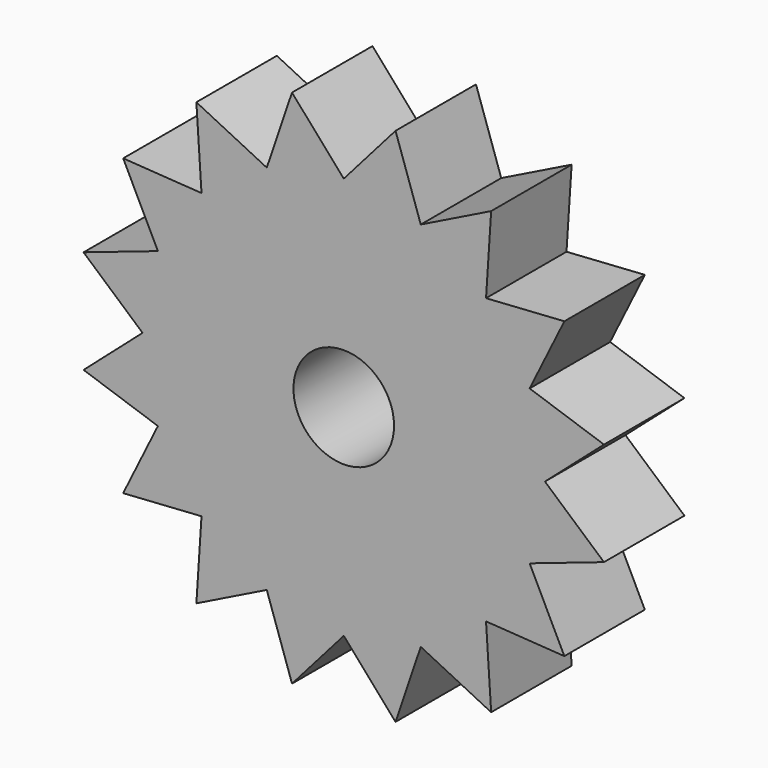
from build123d import *

# Parameters (mm, degrees)
F0_R     = 2
F1_DEPTH = 2


with BuildPart() as f1:
    # F0 (on Front) → F1 (new body, symmetric)
    with BuildSketch(Plane.XZ):
        with BuildLine():
            ThreePointArc((7.3910362601, -3.0614674589), (7.8462822432, -1.5607225761), (8, 0))
            ThreePointArc((8, 0), (7.8462822432, 1.5607225761), (7.3910362601, 3.0614674589))
            ThreePointArc((7.3910362601, 3.0614674589), (6.6517568984, 4.4445618642), (5.6568542495, 5.6568542495))
            ThreePointArc((5.6568542495, 5.6568542495), (4.4445618642, 6.6517568984), (3.0614674589, 7.3910362601))
            ThreePointArc((3.0614674589, 7.3910362601), (1.5607225761, 7.8462822432), (0, 8))
            ThreePointArc((0, 8), (-1.5607225761, 7.8462822432), (-3.0614674589, 7.3910362601))
            ThreePointArc((-3.0614674589, 7.3910362601), (-4.4445618642, 6.6517568984), (-5.6568542495, 5.6568542495))
            ThreePointArc((-5.6568542495, 5.6568542495), (-6.6517568984, 4.4445618642), (-7.3910362601, 3.0614674589))
            ThreePointArc((-7.3910362601, 3.0614674589), (-7.8462822432, 1.5607225761), (-8, 0))
            ThreePointArc((-8, 0), (-7.8462822432, -1.5607225761), (-7.3910362601, -3.0614674589))
            ThreePointArc((-7.3910362601, -3.0614674589), (-6.6517568984, -4.4445618642), (-5.6568542495, -5.6568542495))
            ThreePointArc((-5.6568542495, -5.6568542495), (-4.4445618642, -6.6517568984), (-3.0614674589, -7.3910362601))
            ThreePointArc((-3.0614674589, -7.3910362601), (-1.5607225761, -7.8462822432), (0, -8))
            ThreePointArc((0, -8), (1.5607225761, -7.8462822432), (3.0614674589, -7.3910362601))
            ThreePointArc((3.0614674589, -7.3910362601), (4.4445618642, -6.6517568984), (5.6568542495, -5.6568542495))
            ThreePointArc((5.6568542495, -5.6568542495), (6.6517568984, -4.4445618642), (7.3910362601, -3.0614674589))
        make_face()
        Circle(F0_R, mode=Mode.SUBTRACT)
        with BuildLine():
            Line((10.3468267223, -2.0581117982), (8, 0))
            ThreePointArc((8, 0), (7.8462822432, -1.5607225761), (7.3910362601, -3.0614674589))
            Line((7.3910362601, -3.0614674589), (10.3468267223, -2.0581117982))
        make_face()
        with BuildLine():
            ThreePointArc((7.3910362601, 3.0614674589), (7.8462822432, 1.5607225761), (8, 0))
            Line((8, 0), (10.3468267223, 2.0581117982))
            Line((10.3468267223, 2.0581117982), (7.3910362601, 3.0614674589))
        make_face()
        with BuildLine():
            ThreePointArc((5.6568542495, 5.6568542495), (6.6517568984, 4.4445618642), (7.3910362601, 3.0614674589))
            Line((7.3910362601, 3.0614674589), (8.7716161481, 5.8610065302))
            Line((8.7716161481, 5.8610065302), (5.6568542495, 5.6568542495))
        make_face()
        with BuildLine():
            Line((8.7716161481, -5.8610065302), (7.3910362601, -3.0614674589))
            ThreePointArc((7.3910362601, -3.0614674589), (6.6517568984, -4.4445618642), (5.6568542495, -5.6568542495))
            Line((5.6568542495, -5.6568542495), (8.7716161481, -5.8610065302))
        make_face()
        with BuildLine():
            ThreePointArc((3.0614674589, 7.3910362601), (4.4445618642, 6.6517568984), (5.6568542495, 5.6568542495))
            Line((5.6568542495, 5.6568542495), (5.8610065302, 8.7716161481))
            Line((5.8610065302, 8.7716161481), (3.0614674589, 7.3910362601))
        make_face()
        with BuildLine():
            Line((5.8610065302, -8.7716161481), (5.6568542495, -5.6568542495))
            ThreePointArc((5.6568542495, -5.6568542495), (4.4445618642, -6.6517568984), (3.0614674589, -7.3910362601))
            Line((3.0614674589, -7.3910362601), (5.8610065302, -8.7716161481))
        make_face()
        with BuildLine():
            ThreePointArc((0, 8), (1.5607225761, 7.8462822432), (3.0614674589, 7.3910362601))
            Line((3.0614674589, 7.3910362601), (2.0581117982, 10.3468267223))
            Line((2.0581117982, 10.3468267223), (0, 8))
        make_face()
        with BuildLine():
            Line((2.0581117982, -10.3468267223), (3.0614674589, -7.3910362601))
            ThreePointArc((3.0614674589, -7.3910362601), (1.5607225761, -7.8462822432), (0, -8))
            Line((0, -8), (2.0581117982, -10.3468267223))
        make_face()
        with BuildLine():
            ThreePointArc((-3.0614674589, 7.3910362601), (-1.5607225761, 7.8462822432), (0, 8))
            Line((0, 8), (-2.0581117982, 10.3468267223))
            Line((-2.0581117982, 10.3468267223), (-3.0614674589, 7.3910362601))
        make_face()
        with BuildLine():
            Line((-2.0581117982, -10.3468267223), (0, -8))
            ThreePointArc((0, -8), (-1.5607225761, -7.8462822432), (-3.0614674589, -7.3910362601))
            Line((-3.0614674589, -7.3910362601), (-2.0581117982, -10.3468267223))
        make_face()
        with BuildLine():
            ThreePointArc((-5.6568542495, 5.6568542495), (-4.4445618642, 6.6517568984), (-3.0614674589, 7.3910362601))
            Line((-3.0614674589, 7.3910362601), (-5.8610065302, 8.7716161481))
            Line((-5.8610065302, 8.7716161481), (-5.6568542495, 5.6568542495))
        make_face()
        with BuildLine():
            Line((-5.8610065302, -8.7716161481), (-3.0614674589, -7.3910362601))
            ThreePointArc((-3.0614674589, -7.3910362601), (-4.4445618642, -6.6517568984), (-5.6568542495, -5.6568542495))
            Line((-5.6568542495, -5.6568542495), (-5.8610065302, -8.7716161481))
        make_face()
        with BuildLine():
            ThreePointArc((-7.3910362601, 3.0614674589), (-6.6517568984, 4.4445618642), (-5.6568542495, 5.6568542495))
            Line((-5.6568542495, 5.6568542495), (-8.7716161481, 5.8610065302))
            Line((-8.7716161481, 5.8610065302), (-7.3910362601, 3.0614674589))
        make_face()
        with BuildLine():
            Line((-8.7716161481, -5.8610065302), (-5.6568542495, -5.6568542495))
            ThreePointArc((-5.6568542495, -5.6568542495), (-6.6517568984, -4.4445618642), (-7.3910362601, -3.0614674589))
            Line((-7.3910362601, -3.0614674589), (-8.7716161481, -5.8610065302))
        make_face()
        with BuildLine():
            ThreePointArc((-8, 0), (-7.8462822432, 1.5607225761), (-7.3910362601, 3.0614674589))
            Line((-7.3910362601, 3.0614674589), (-10.3468267223, 2.0581117982))
            Line((-10.3468267223, 2.0581117982), (-8, 0))
        make_face()
        with BuildLine():
            Line((-10.3468267223, -2.0581117982), (-7.3910362601, -3.0614674589))
            ThreePointArc((-7.3910362601, -3.0614674589), (-7.8462822432, -1.5607225761), (-8, 0))
            Line((-8, 0), (-10.3468267223, -2.0581117982))
        make_face()
    extrude(amount=F1_DEPTH, both=True)


solid = f1.part
